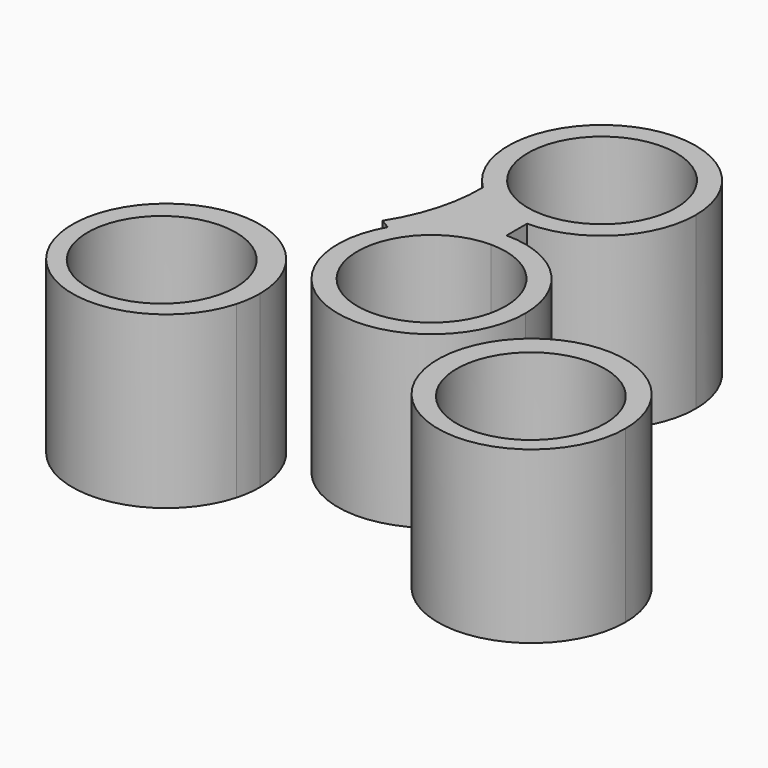
from build123d import *

# Parameters (mm, degrees)
F1_DEPTH = 25.4
F0_R     = 11.049


with BuildPart() as f1:
    # F0 (on Top) → F1 (new body)
    with BuildSketch(Plane.XY):
        with BuildLine():
            ThreePointArc((0, 11.049), (7.8128228253, 7.8128228253), (11.049, 0))
            ThreePointArc((11.049, 0), (-2.8596916293, -10.6725144547), (-9.5687146864, 5.5245))
            Line((-9.5687146864, 5.5245), (-12.0983748909, 6.985))
            ThreePointArc((-12.0983748909, 6.985), (-3.6157020601, -13.4939837933), (13.97, 0))
            ThreePointArc((13.97, 0), (9.8782817332, 9.8782817332), (0, 13.97))
            Line((0, 13.97), (0, 11.049))
        make_face()
        with BuildLine():
            ThreePointArc((-9.5687146864, 5.5245), (-5.5245, 9.5687146864), (0, 11.049))
            Line((0, 11.049), (0, 13.97))
            ThreePointArc((0, 13.97), (-6.985, 12.0983748909), (-12.0983748909, 6.985))
            Line((-12.0983748909, 6.985), (-9.5687146864, 5.5245))
        make_face()
        with BuildLine():
            ThreePointArc((-12.0983748909, 6.985), (-6.985, 12.0983748909), (0, 13.97))
            Line((0, 13.97), (0, 17.78))
            ThreePointArc((0, 17.78), (-5.2369846592, 18.7987494164), (-9.7101647279, 21.706414935))
            ThreePointArc((-9.7101647279, 21.706414935), (-10.6373226429, 14.4931657481), (-13.5956756423, 7.8494669919))
            Line((-13.5956756423, 7.8494669919), (-12.0983748909, 6.985))
        make_face()
        with BuildLine():
            ThreePointArc((-9.7101647279, 21.706414935), (-5.2369846592, 18.7987494164), (0, 17.78))
            ThreePointArc((0, 17.78), (9.8782817332, 21.8717182668), (13.97, 31.75))
            ThreePointArc((13.97, 31.75), (-5.454809747, 44.611024478), (-9.7101647279, 21.706414935))
        make_face()
        with BuildLine():
            ThreePointArc((11.049, 31.75), (7.8128228253, 23.9371771747), (0, 20.701))
            ThreePointArc((0, 20.701), (-7.8128228253, 39.5628228253), (11.049, 31.75))
        make_face(mode=Mode.SUBTRACT)
    extrude(amount=F1_DEPTH)


with BuildPart() as f1b:
    # F0 (on Top) → F1, piece 2 (new body)
    with BuildSketch(Plane.XY):
        with BuildLine():
            ThreePointArc((-13.24606908, -15.3932316846), (-16.4625654972, -6.4756613489), (-24.6309023934, -1.6645094862))
            ThreePointArc((-24.6309023934, -1.6645094862), (-39.0815540225, -22.7669123856), (-13.7619331001, -19.1544980983))
            ThreePointArc((-13.7619331001, -19.1544980983), (-13.3756359286, -17.2914703895), (-13.24606908, -15.3932316846))
        make_face()
        with Locations((-27.4963065702, -15.875)):
            Circle(F0_R, mode=Mode.SUBTRACT)
    extrude(amount=F1_DEPTH)


with BuildPart() as f1c:
    # F0 (on Top) → F1, piece 3 (new body)
    with BuildSketch(Plane.XY):
        with BuildLine():
            ThreePointArc((23.0051975699, -2.0721487123), (18.9641650078, -26.6615281564), (41.1892017154, -15.3914230568))
            ThreePointArc((41.1892017154, -15.3914230568), (35.474238423, -4.1213179571), (23.0051975699, -2.0721487123))
        make_face()
        with Locations((27.4963065702, -15.875)):
            Circle(F0_R, mode=Mode.SUBTRACT)
    extrude(amount=F1_DEPTH)


solid = Compound([f1.part, f1b.part, f1c.part])
